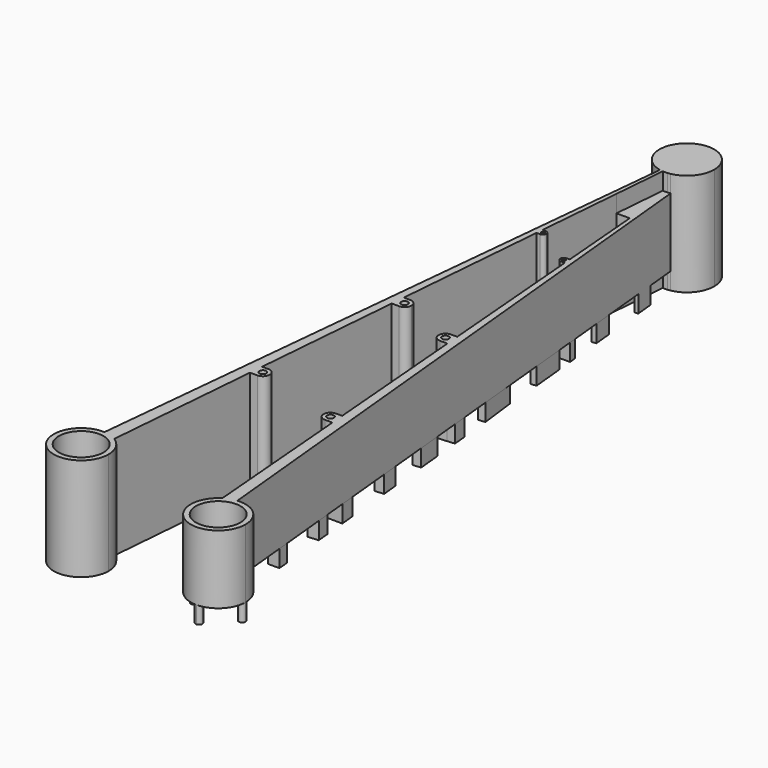
from build123d import *

# Parameters (mm, degrees)
F0_R     = 3.25
F0_R_2   = 0.5
F1_DEPTH = 15
F2_DEPTH = 12.5
F3_DEPTH = 2.5
F5_DEPTH = 2.5
F6_DEPTH = 2.5
F7_DEPTH = 12.5
F8_DEPTH = 2.5


with BuildPart() as f1:
    # F0 (on Top) → F1 (new body)
    with BuildSketch(Plane.XY):
        with BuildLine():
            ThreePointArc((9.6678180806, 94.013816967), (10, 94), (10.3321819194, 94.013816967))
            Line((10.3321819194, 94.013816967), (10.1660909597, 96.0069084835))
            Line((10.1660909597, 96.0069084835), (9.8339090403, 96.0069084835))
            Line((9.8339090403, 96.0069084835), (9.6678180806, 94.013816967))
        make_face()
        with BuildLine():
            ThreePointArc((2.1161970384, 3.3943644611), (1.1961659632, 3.8169604384), (0.1995021762, 3.9950217624))
            ThreePointArc((0.1995021762, 3.9950217624), (-2.8981035786, -2.7569903242), (4, 0))
            ThreePointArc((4, 0), (3.4974839638, 1.9410321798), (2.1161970384, 3.3943644611))
        make_face()
        Circle(F0_R, mode=Mode.SUBTRACT)
        with BuildLine():
            Line((4.067765815, 26.8131897798), (3.9844324817, 25.8131897798))
            Line((3.9844324817, 25.8131897798), (5.067765815, 25.8131897798))
            ThreePointArc((5.067765815, 25.8131897798), (6.067765815, 26.8131897798), (5.067765815, 27.8131897798))
            Line((5.067765815, 27.8131897798), (4.1510991483, 27.8131897798))
            Line((4.1510991483, 27.8131897798), (4.067765815, 26.8131897798))
        make_face()
        with Locations((5.067765815, 26.8131897798)):
            Circle(F0_R_2, mode=Mode.SUBTRACT)
        with BuildLine():
            ThreePointArc((8.0193345915, 50.2320150986), (7.7264413727, 50.9391218798), (7.0193345915, 51.2320150986))
            Line((7.0193345915, 51.2320150986), (7.0193345915, 50.7320150986))
            ThreePointArc((7.0193345915, 50.7320150986), (7.3728879821, 50.5855684892), (7.5193345915, 50.2320150986))
            Line((7.5193345915, 50.2320150986), (8.0193345915, 50.2320150986))
        make_face()
        with BuildLine():
            ThreePointArc((8.9709033681, 73.6508404173), (8.8244567587, 74.0043938079), (8.4709033681, 74.1508404173))
            Line((8.4709033681, 74.1508404173), (8.4709033681, 73.9008404173))
            ThreePointArc((8.4709033681, 73.9008404173), (8.6476800634, 73.8276171126), (8.7209033681, 73.6508404173))
            Line((8.7209033681, 73.6508404173), (8.9709033681, 73.6508404173))
        make_face()
        with BuildLine():
            ThreePointArc((10.3321819194, 94.013816967), (10.5553899064, 94.0387448893), (10.7768469155, 94.0761614623))
            ThreePointArc((10.7768469155, 94.0761614623), (13.0909050181, 95.4610423066), (14, 98))
            ThreePointArc((14, 98), (7.467048839, 101.0958291968), (9.2079207921, 94.0792079208))
            ThreePointArc((9.2079207921, 94.0792079208), (9.4369193976, 94.039830782), (9.6678180806, 94.013816967))
            Line((9.6678180806, 94.013816967), (9.8339090403, 96.0069084835))
            Line((9.8339090403, 96.0069084835), (10.1660909597, 96.0069084835))
            Line((10.1660909597, 96.0069084835), (10.3321819194, 94.013816967))
        make_face()
        with BuildLine():
            Line((7.0193345915, 51.2320150986), (6.1026679249, 51.2320150986))
            Line((6.1026679249, 51.2320150986), (6.033127695, 50.39753234))
            Line((6.033127695, 50.39753234), (6.0193345915, 50.2320150986))
            Line((6.0193345915, 50.2320150986), (6.5193345915, 50.2320150986))
            ThreePointArc((6.5193345915, 50.2320150986), (6.665781201, 50.5855684892), (7.0193345915, 50.7320150986))
            Line((7.0193345915, 50.7320150986), (7.0193345915, 51.2320150986))
        make_face()
        with BuildLine():
            Line((8.4709033681, 74.1508404173), (8.0125700348, 74.1508404173))
            Line((8.0125700348, 74.1508404173), (7.9709033681, 73.6508404173))
            Line((7.9709033681, 73.6508404173), (8.2209033681, 73.6508404173))
            ThreePointArc((8.2209033681, 73.6508404173), (8.2941266728, 73.8276171126), (8.4709033681, 73.9008404173))
            Line((8.4709033681, 73.9008404173), (8.4709033681, 74.1508404173))
        make_face()
        with BuildLine():
            Line((6.5193345915, 50.2320150986), (6.0193345915, 50.2320150986))
            Line((6.0193345915, 50.2320150986), (5.9360012582, 49.2320150986))
            Line((5.9360012582, 49.2320150986), (7.0193345915, 49.2320150986))
            ThreePointArc((7.0193345915, 49.2320150986), (7.7264413727, 49.5249083174), (8.0193345915, 50.2320150986))
            Line((8.0193345915, 50.2320150986), (7.5193345915, 50.2320150986))
            ThreePointArc((7.5193345915, 50.2320150986), (7.0193345915, 49.7320150986), (6.5193345915, 50.2320150986))
        make_face()
        with BuildLine():
            Line((8.2209033681, 73.6508404173), (7.9709033681, 73.6508404173))
            Line((7.9709033681, 73.6508404173), (7.9292367014, 73.1508404173))
            Line((7.9292367014, 73.1508404173), (8.4709033681, 73.1508404173))
            ThreePointArc((8.4709033681, 73.1508404173), (8.8244567587, 73.2972870267), (8.9709033681, 73.6508404173))
            Line((8.9709033681, 73.6508404173), (8.7209033681, 73.6508404173))
            ThreePointArc((8.7209033681, 73.6508404173), (8.4709033681, 73.4008404173), (8.2209033681, 73.6508404173))
        make_face()
        with BuildLine():
            ThreePointArc((9.6678180806, 94.013816967), (9.4369193976, 94.039830782), (9.2079207921, 94.0792079208))
            Line((9.2079207921, 94.0792079208), (7.1040532172, 73.0405321725))
            Line((7.1040532172, 73.0405321725), (4.6040222768, 48.0402227684))
            Line((4.6040222768, 48.0402227684), (2.1435952968, 23.4359529684))
            Line((2.1435952968, 23.4359529684), (0.1995021762, 3.9950217624))
            ThreePointArc((0.1995021762, 3.9950217624), (1.1961659632, 3.8169604384), (2.1161970384, 3.3943644611))
            Line((2.1161970384, 3.3943644611), (3.9844324817, 25.8131897798))
            Line((3.9844324817, 25.8131897798), (4.067765815, 26.8131897798))
            Line((4.067765815, 26.8131897798), (4.1510991483, 27.8131897798))
            Line((4.1510991483, 27.8131897798), (5.9360012582, 49.2320150986))
            Line((5.9360012582, 49.2320150986), (6.0193345915, 50.2320150986))
            Line((6.0193345915, 50.2320150986), (6.033127695, 50.39753234))
            Line((6.033127695, 50.39753234), (6.1026679249, 51.2320150986))
            Line((6.1026679249, 51.2320150986), (7.9292367014, 73.1508404173))
            Line((7.9292367014, 73.1508404173), (7.9709033681, 73.6508404173))
            Line((7.9709033681, 73.6508404173), (8.0125700348, 74.1508404173))
            Line((8.0125700348, 74.1508404173), (9.0302870128, 86.3634441538))
            Line((9.0302870128, 86.3634441538), (9.6678180806, 94.013816967))
        make_face()
    extrude(amount=F1_DEPTH)

    # F0 (on Top) → F2 (join)
    with BuildSketch(Plane.XY):
        with BuildLine():
            Line((19.6097143039, 3.9809141005), (10.7768469155, 94.0761614623))
            ThreePointArc((10.7768469155, 94.0761614623), (10.5553899064, 94.0387448893), (10.3321819194, 94.013816967))
            Line((10.3321819194, 94.013816967), (10.9697129872, 86.3634441538))
            Line((10.9697129872, 86.3634441538), (11.9874299652, 74.1508404173))
            Line((11.9874299652, 74.1508404173), (12.0290966319, 73.6508404173))
            Line((12.0290966319, 73.6508404173), (12.0707632986, 73.1508404173))
            Line((12.0707632986, 73.1508404173), (13.8973320751, 51.2320150986))
            Line((13.8973320751, 51.2320150986), (13.9806654085, 50.2320150986))
            Line((13.9806654085, 50.2320150986), (14.0639987418, 49.2320150986))
            Line((14.0639987418, 49.2320150986), (15.8489008517, 27.8131897798))
            Line((15.8489008517, 27.8131897798), (16.0155675183, 25.8131897798))
            Line((16.0155675183, 25.8131897798), (17.8838029616, 3.3943644611))
            ThreePointArc((17.8838029616, 3.3943644611), (18.7129009189, 3.7872649703), (19.6097143039, 3.9809141005))
        make_face()
        with BuildLine():
            ThreePointArc((24, 0), (22.6868994413, 2.9632028942), (19.6097143039, 3.9809141005))
            ThreePointArc((19.6097143039, 3.9809141005), (18.7129009189, 3.7872649703), (17.8838029616, 3.3943644611))
            ThreePointArc((17.8838029616, 3.3943644611), (18.0589678202, -3.4974839638), (24, 0))
        make_face()
        with Locations((20, 0)):
            Circle(F0_R, mode=Mode.SUBTRACT)
        with BuildLine():
            Line((14.932234185, 25.8131897798), (16.0155675183, 25.8131897798))
            Line((16.0155675183, 25.8131897798), (15.8489008517, 27.8131897798))
            Line((15.8489008517, 27.8131897798), (14.932234185, 27.8131897798))
            ThreePointArc((14.932234185, 27.8131897798), (13.932234185, 26.8131897798), (14.932234185, 25.8131897798))
        make_face()
        with BuildLine():
            ThreePointArc((15.432234185, 26.8131897798), (15.2857875756, 26.4596363892), (14.932234185, 26.3131897798))
            ThreePointArc((14.932234185, 26.3131897798), (14.5786807944, 27.1667431704), (15.432234185, 26.8131897798))
        make_face(mode=Mode.SUBTRACT)
        with BuildLine():
            ThreePointArc((11.9806654085, 50.2320150986), (12.2735586273, 49.5249083174), (12.9806654085, 49.2320150986))
            Line((12.9806654085, 49.2320150986), (12.9806654085, 49.7320150986))
            ThreePointArc((12.9806654085, 49.7320150986), (12.6271120179, 49.878461708), (12.4806654085, 50.2320150986))
            Line((12.4806654085, 50.2320150986), (11.9806654085, 50.2320150986))
        make_face()
        with BuildLine():
            Line((12.9806654085, 49.2320150986), (14.0639987418, 49.2320150986))
            Line((14.0639987418, 49.2320150986), (13.9806654085, 50.2320150986))
            Line((13.9806654085, 50.2320150986), (13.4806654085, 50.2320150986))
            ThreePointArc((13.4806654085, 50.2320150986), (13.334218799, 49.878461708), (12.9806654085, 49.7320150986))
            Line((12.9806654085, 49.7320150986), (12.9806654085, 49.2320150986))
        make_face()
        with BuildLine():
            Line((13.4806654085, 50.2320150986), (13.9806654085, 50.2320150986))
            Line((13.9806654085, 50.2320150986), (13.8973320751, 51.2320150986))
            Line((13.8973320751, 51.2320150986), (12.9806654085, 51.2320150986))
            ThreePointArc((12.9806654085, 51.2320150986), (12.2735586273, 50.9391218798), (11.9806654085, 50.2320150986))
            Line((11.9806654085, 50.2320150986), (12.4806654085, 50.2320150986))
            ThreePointArc((12.4806654085, 50.2320150986), (12.9806654085, 50.7320150986), (13.4806654085, 50.2320150986))
        make_face()
        with BuildLine():
            Line((12.0707632986, 73.1508404173), (12.0290966319, 73.6508404173))
            Line((12.0290966319, 73.6508404173), (11.7790966319, 73.6508404173))
            ThreePointArc((11.7790966319, 73.6508404173), (11.7058733272, 73.474063722), (11.5290966319, 73.4008404173))
            Line((11.5290966319, 73.4008404173), (11.5290966319, 73.1508404173))
            Line((11.5290966319, 73.1508404173), (12.0707632986, 73.1508404173))
        make_face()
        with BuildLine():
            Line((11.2790966319, 73.6508404173), (11.0290966319, 73.6508404173))
            ThreePointArc((11.0290966319, 73.6508404173), (11.1755432413, 73.2972870267), (11.5290966319, 73.1508404173))
            Line((11.5290966319, 73.1508404173), (11.5290966319, 73.4008404173))
            ThreePointArc((11.5290966319, 73.4008404173), (11.3523199366, 73.474063722), (11.2790966319, 73.6508404173))
        make_face()
        with BuildLine():
            Line((12.0290966319, 73.6508404173), (11.9874299652, 74.1508404173))
            Line((11.9874299652, 74.1508404173), (11.5290966319, 74.1508404173))
            ThreePointArc((11.5290966319, 74.1508404173), (11.1755432413, 74.0043938079), (11.0290966319, 73.6508404173))
            Line((11.0290966319, 73.6508404173), (11.2790966319, 73.6508404173))
            ThreePointArc((11.2790966319, 73.6508404173), (11.5290966319, 73.9008404173), (11.7790966319, 73.6508404173))
            Line((11.7790966319, 73.6508404173), (12.0290966319, 73.6508404173))
        make_face()
    extrude(amount=F2_DEPTH)

    # F0 (on Top) → F3 (cut)
    with BuildSketch(Plane.XY):
        with BuildLine():
            Line((19.6097143039, 3.9809141005), (10.7768469155, 94.0761614623))
            ThreePointArc((10.7768469155, 94.0761614623), (10.5553899064, 94.0387448893), (10.3321819194, 94.013816967))
            Line((10.3321819194, 94.013816967), (10.9697129872, 86.3634441538))
            Line((10.9697129872, 86.3634441538), (11.9874299652, 74.1508404173))
            Line((11.9874299652, 74.1508404173), (12.0290966319, 73.6508404173))
            Line((12.0290966319, 73.6508404173), (12.0707632986, 73.1508404173))
            Line((12.0707632986, 73.1508404173), (13.8973320751, 51.2320150986))
            Line((13.8973320751, 51.2320150986), (13.9806654085, 50.2320150986))
            Line((13.9806654085, 50.2320150986), (14.0639987418, 49.2320150986))
            Line((14.0639987418, 49.2320150986), (15.8489008517, 27.8131897798))
            Line((15.8489008517, 27.8131897798), (16.0155675183, 25.8131897798))
            Line((16.0155675183, 25.8131897798), (17.8838029616, 3.3943644611))
            ThreePointArc((17.8838029616, 3.3943644611), (18.7129009189, 3.7872649703), (19.6097143039, 3.9809141005))
        make_face()
        with BuildLine():
            ThreePointArc((24, 0), (22.6868994413, 2.9632028942), (19.6097143039, 3.9809141005))
            ThreePointArc((19.6097143039, 3.9809141005), (18.7129009189, 3.7872649703), (17.8838029616, 3.3943644611))
            ThreePointArc((17.8838029616, 3.3943644611), (18.0589678202, -3.4974839638), (24, 0))
        make_face()
        with Locations((20, 0)):
            Circle(F0_R, mode=Mode.SUBTRACT)
        with BuildLine():
            Line((14.932234185, 25.8131897798), (16.0155675183, 25.8131897798))
            Line((16.0155675183, 25.8131897798), (15.8489008517, 27.8131897798))
            Line((15.8489008517, 27.8131897798), (14.932234185, 27.8131897798))
            ThreePointArc((14.932234185, 27.8131897798), (13.932234185, 26.8131897798), (14.932234185, 25.8131897798))
        make_face()
        with BuildLine():
            ThreePointArc((15.432234185, 26.8131897798), (15.2857875756, 26.4596363892), (14.932234185, 26.3131897798))
            ThreePointArc((14.932234185, 26.3131897798), (14.5786807944, 27.1667431704), (15.432234185, 26.8131897798))
        make_face(mode=Mode.SUBTRACT)
        with BuildLine():
            Line((13.4806654085, 50.2320150986), (13.9806654085, 50.2320150986))
            Line((13.9806654085, 50.2320150986), (13.8973320751, 51.2320150986))
            Line((13.8973320751, 51.2320150986), (12.9806654085, 51.2320150986))
            ThreePointArc((12.9806654085, 51.2320150986), (12.2735586273, 50.9391218798), (11.9806654085, 50.2320150986))
            Line((11.9806654085, 50.2320150986), (12.4806654085, 50.2320150986))
            ThreePointArc((12.4806654085, 50.2320150986), (12.9806654085, 50.7320150986), (13.4806654085, 50.2320150986))
        make_face()
        with BuildLine():
            Line((12.9806654085, 49.2320150986), (14.0639987418, 49.2320150986))
            Line((14.0639987418, 49.2320150986), (13.9806654085, 50.2320150986))
            Line((13.9806654085, 50.2320150986), (13.4806654085, 50.2320150986))
            ThreePointArc((13.4806654085, 50.2320150986), (13.334218799, 49.878461708), (12.9806654085, 49.7320150986))
            Line((12.9806654085, 49.7320150986), (12.9806654085, 49.2320150986))
        make_face()
        with BuildLine():
            ThreePointArc((11.9806654085, 50.2320150986), (12.2735586273, 49.5249083174), (12.9806654085, 49.2320150986))
            Line((12.9806654085, 49.2320150986), (12.9806654085, 49.7320150986))
            ThreePointArc((12.9806654085, 49.7320150986), (12.6271120179, 49.878461708), (12.4806654085, 50.2320150986))
            Line((12.4806654085, 50.2320150986), (11.9806654085, 50.2320150986))
        make_face()
        with BuildLine():
            Line((12.0290966319, 73.6508404173), (11.9874299652, 74.1508404173))
            Line((11.9874299652, 74.1508404173), (11.5290966319, 74.1508404173))
            ThreePointArc((11.5290966319, 74.1508404173), (11.1755432413, 74.0043938079), (11.0290966319, 73.6508404173))
            Line((11.0290966319, 73.6508404173), (11.2790966319, 73.6508404173))
            ThreePointArc((11.2790966319, 73.6508404173), (11.5290966319, 73.9008404173), (11.7790966319, 73.6508404173))
            Line((11.7790966319, 73.6508404173), (12.0290966319, 73.6508404173))
        make_face()
        with BuildLine():
            Line((12.0707632986, 73.1508404173), (12.0290966319, 73.6508404173))
            Line((12.0290966319, 73.6508404173), (11.7790966319, 73.6508404173))
            ThreePointArc((11.7790966319, 73.6508404173), (11.7058733272, 73.474063722), (11.5290966319, 73.4008404173))
            Line((11.5290966319, 73.4008404173), (11.5290966319, 73.1508404173))
            Line((11.5290966319, 73.1508404173), (12.0707632986, 73.1508404173))
        make_face()
        with BuildLine():
            Line((11.2790966319, 73.6508404173), (11.0290966319, 73.6508404173))
            ThreePointArc((11.0290966319, 73.6508404173), (11.1755432413, 73.2972870267), (11.5290966319, 73.1508404173))
            Line((11.5290966319, 73.1508404173), (11.5290966319, 73.4008404173))
            ThreePointArc((11.5290966319, 73.4008404173), (11.3523199366, 73.474063722), (11.2790966319, 73.6508404173))
        make_face()
    extrude(amount=F3_DEPTH, mode=Mode.SUBTRACT)

    # F4 (on Top) → F5 (join)
    with BuildSketch(Plane.XY):
        with BuildLine():
            Line((20, -3), (20, -4))
            ThreePointArc((20, -4), (20.3535533906, -3.8535533906), (20.5, -3.5))
            ThreePointArc((20.5, -3.5), (20.3535533906, -3.1464466094), (20, -3))
        make_face()
        with BuildLine():
            ThreePointArc((20, -3), (19.5, -3.5), (20, -4))
            Line((20, -4), (20, -3))
        make_face()
        with BuildLine():
            Line((17, 0), (16, 0))
            ThreePointArc((16, 0), (16.5, -0.5), (17, 0))
        make_face()
        with BuildLine():
            ThreePointArc((17, 0), (16.5, 0.5), (16, 0))
            Line((16, 0), (17, 0))
        make_face()
        with BuildLine():
            ThreePointArc((20.5, 3.5), (20.3535533906, 3.8535533906), (20, 4))
            Line((20, 4), (20, 3))
            ThreePointArc((20, 3), (20.3535533906, 3.1464466094), (20.5, 3.5))
        make_face()
        with BuildLine():
            Line((20, 3), (20, 4))
            ThreePointArc((20, 4), (19.5, 3.5), (20, 3))
        make_face()
        with BuildLine():
            Line((23, 0), (24, 0))
            ThreePointArc((24, 0), (23.5, 0.5), (23, 0))
        make_face()
        with BuildLine():
            ThreePointArc((23, 0), (23.5, -0.5), (24, 0))
            Line((24, 0), (23, 0))
        make_face()
    extrude(amount=F5_DEPTH)

    # F4 (on Top) → F6 (join)
    with BuildSketch(Plane.XY):
        Polygon((16.9708743302, 14.3495080379), (17.1059086572, 12.7290961134), (18.7520494006, 12.7290961134), (18.5931854865, 14.3495080379), align=None)
        Polygon((16.2810362977, 22.6275644274), (16.4351958906, 20.7776493123), (17.9505948472, 20.9039325587), (17.7673255821, 22.7732790631), align=None)
        with BuildLine():
            Line((14.932234185, 25.8131897798), (16.0155675183, 25.8131897798))
            Line((16.0155675183, 25.8131897798), (17.4692951196, 25.8131897798))
            Line((17.4692951196, 25.8131897798), (17.2596569411, 27.9514992004))
            Line((17.2596569411, 27.9514992004), (15.8489008517, 27.8131897798))
            Line((15.8489008517, 27.8131897798), (14.932234185, 27.8131897798))
            ThreePointArc((14.932234185, 27.8131897798), (13.932234185, 26.8131897798), (14.932234185, 25.8131897798))
        make_face()
        with BuildLine():
            Line((13.932234185, 25.8131897798), (14.932234185, 25.8131897798))
            ThreePointArc((14.932234185, 25.8131897798), (13.932234185, 26.8131897798), (14.932234185, 27.8131897798))
            Line((14.932234185, 27.8131897798), (13.7361557536, 27.8131897798))
            Line((13.7361557536, 27.8131897798), (13.932234185, 25.8131897798))
        make_face()
        Polygon((15.3023727019, 34.3715275775), (16.6176008322, 34.5004715118), (16.3901504901, 36.8204650011), (15.0982945832, 36.8204650011), align=None)
        Polygon((14.6596328003, 42.0844063966), (15.8625160658, 42.2023361285), (15.5295871027, 45.5982115523), (14.3762384868, 45.4851381586), align=None)
        with BuildLine():
            Line((14.071649315, 49.1402082204), (15.1733318531, 49.2320150986))
            Line((15.1733318531, 49.2320150986), (14.9772534217, 51.2320150986))
            Line((14.9772534217, 51.2320150986), (13.8973320751, 51.2320150986))
            Line((13.8973320751, 51.2320150986), (12.9806654085, 51.2320150986))
            ThreePointArc((12.9806654085, 51.2320150986), (11.9806654085, 50.2320150986), (12.9806654085, 49.2320150986))
            Line((12.9806654085, 49.2320150986), (14.0639987418, 49.2320150986))
            Line((14.0639987418, 49.2320150986), (14.071649315, 49.1402082204))
        make_face()
        with BuildLine():
            Line((11.9806654085, 48.9659595615), (14.071649315, 49.1402082204))
            Line((14.071649315, 49.1402082204), (14.0639987418, 49.2320150986))
            Line((14.0639987418, 49.2320150986), (12.9806654085, 49.2320150986))
            ThreePointArc((12.9806654085, 49.2320150986), (11.9806654085, 50.2320150986), (12.9806654085, 51.2320150986))
            Line((12.9806654085, 51.2320150986), (11.791827447, 51.2320150986))
            Line((11.791827447, 51.2320150986), (11.9806654085, 48.9659595615))
        make_face()
        Polygon((13.5447900933, 55.4625188806), (14.55425092, 55.5466406162), (13.8973320751, 60.9013275012), (13.0980858311, 60.8229700263), align=None)
        Polygon((12.6571229143, 66.1145250288), (13.5112060176, 66.1856986207), (13.04461728, 70.9449037445), (12.2609935096, 70.8680778847), align=None)
        with BuildLine():
            Line((12.0707632986, 73.1508404173), (12.8283489787, 73.1508404173))
            Line((12.8283489787, 73.1508404173), (12.730309763, 74.1508404173))
            Line((12.730309763, 74.1508404173), (11.9874299652, 74.1508404173))
            Line((11.9874299652, 74.1508404173), (11.5290966319, 74.1508404173))
            ThreePointArc((11.5290966319, 74.1508404173), (11.0290966319, 73.6508404173), (11.5290966319, 73.1508404173))
            Line((11.5290966319, 73.1508404173), (12.0707632986, 73.1508404173))
        make_face()
        with BuildLine():
            Line((10.7600167394, 73.1508404173), (11.5290966319, 73.1508404173))
            ThreePointArc((11.5290966319, 73.1508404173), (11.0290966319, 73.6508404173), (11.5290966319, 74.1508404173))
            Line((11.5290966319, 74.1508404173), (10.7600167394, 74.1508404173))
            Line((10.7600167394, 74.1508404173), (10.7600167394, 73.1508404173))
        make_face()
        Polygon((11.6202811733, 78.55662592), (12.2928749606, 78.6126754023), (12.0296401229, 81.2976707463), (11.3970291614, 81.2356500638), align=None)
        Polygon((10.8917586625, 87.2988960495), (11.4368314916, 87.3443187852), (11.1885348917, 89.8769441042), (10.6810673017, 89.8271923797), align=None)
    extrude(amount=F6_DEPTH)

    # F0 (on Top) → F7 (join)
    with BuildSketch(Plane.XY):
        with BuildLine():
            Line((10.9697129872, 86.3634441538), (10.3321819194, 94.013816967))
            ThreePointArc((10.3321819194, 94.013816967), (10, 94), (9.6678180806, 94.013816967))
            Line((9.6678180806, 94.013816967), (9.0302870128, 86.3634441538))
            Line((9.0302870128, 86.3634441538), (10.9697129872, 86.3634441538))
        make_face()
    extrude(amount=F7_DEPTH)

    # F0 (on Top) → F8 (cut)
    with BuildSketch(Plane.XY):
        with BuildLine():
            Line((10.9697129872, 86.3634441538), (10.3321819194, 94.013816967))
            ThreePointArc((10.3321819194, 94.013816967), (10, 94), (9.6678180806, 94.013816967))
            Line((9.6678180806, 94.013816967), (9.0302870128, 86.3634441538))
            Line((9.0302870128, 86.3634441538), (10.9697129872, 86.3634441538))
        make_face()
    extrude(amount=F8_DEPTH, mode=Mode.SUBTRACT)


solid = f1.part
